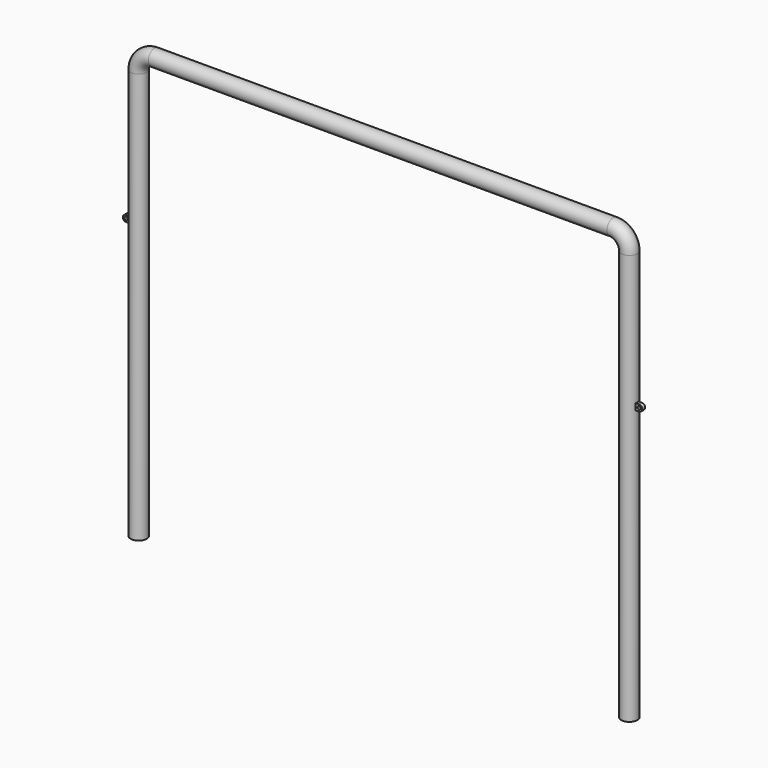
from build123d import *

# Parameters (mm, degrees)
F0_R          = 37.5
F3_R          = 7.5
F4_DEPTH      = 8.33
F4_DEPTH_BACK = 8.33


with BuildPart() as f2:
    # F2: sweep along a path in F1
    with BuildLine(Plane.XZ) as f2_path:
        Line((1150, 0), (1150, 1925))
        ThreePointArc((1150, 1925), (1128.033008589, 1978.033008589), (1075, 2000))
        Line((1075, 2000), (-1075, 2000))
        ThreePointArc((-1075, 2000), (-1128.033008589, 1978.033008589), (-1150, 1925))
        Line((-1150, 1925), (-1150, 0))
    # F0 (on Top) → F2 (sweep)
    with BuildSketch(Plane.XY):
        with Locations((1150, 0)):
            Circle(F0_R)
    sweep(path=f2_path.line)

    # F3 (on Front) → F4 (join, two sides)
    with BuildSketch(Plane.XZ) as f4_sk:
        with BuildLine():
            Line((1202.5, 1311.5), (1150, 1311.5))
            Line((1150, 1311.5), (1150, 1281.5))
            Line((1150, 1281.5), (1202.5, 1281.5))
            ThreePointArc((1202.5, 1281.5), (1213.1066017178, 1285.8933982822), (1217.5, 1296.5))
            ThreePointArc((1217.5, 1296.5), (1213.1066017178, 1307.1066017178), (1202.5, 1311.5))
        make_face()
        with Locations((1202.5, 1296.5)):
            Circle(F3_R, mode=Mode.SUBTRACT)
        with BuildLine():
            Line((-1150, 1281.5), (-1150, 1311.5))
            Line((-1150, 1311.5), (-1202.5, 1311.5))
            ThreePointArc((-1202.5, 1311.5), (-1213.1066017178, 1307.1066017178), (-1217.5, 1296.5))
            ThreePointArc((-1217.5, 1296.5), (-1213.1066017178, 1285.8933982822), (-1202.5, 1281.5))
            Line((-1202.5, 1281.5), (-1150, 1281.5))
        make_face()
        with Locations((-1202.5, 1296.5)):
            Circle(F3_R, mode=Mode.SUBTRACT)
    extrude(amount=F4_DEPTH)
    extrude(f4_sk.sketch, amount=-F4_DEPTH_BACK)


solid = f2.part
